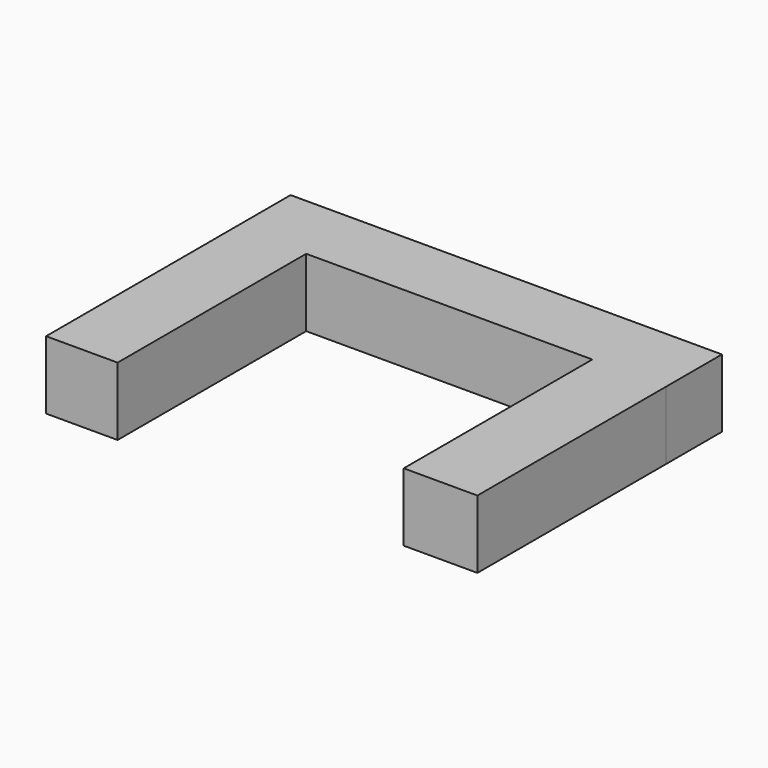
from build123d import *

# Parameters (mm, degrees)
F0_W     = 15.749999
F0_H     = 51.903412
F0_W_2   = 16.227277
F1_DEPTH = 15


with BuildPart() as f1:
    # F0 (on Top) → F1 (new body)
    with BuildSketch(Plane.XY):
        Polygon((-47.607955, 15.392046), (-47.607955, 0), (-31.857956, 0), (31.142047, 0), (47.369324, 0), (47.369324, 15.392046), align=None)
        with Locations((-39.732955, -25.951706)):
            Rectangle(F0_W, F0_H)
        with Locations((39.255685, -25.951706)):
            Rectangle(F0_W_2, F0_H)
    extrude(amount=F1_DEPTH)


solid = f1.part
